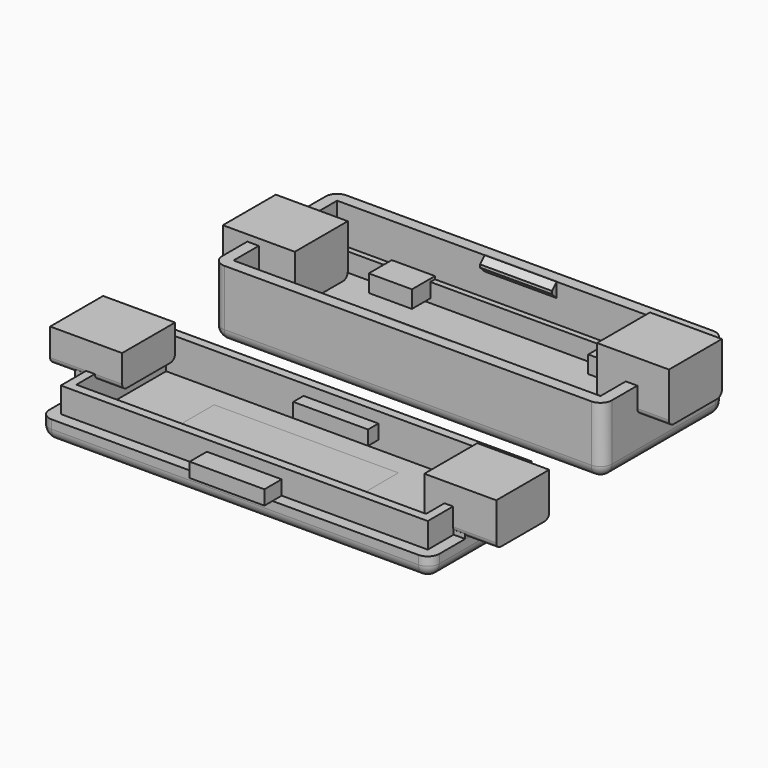
from build123d import *

# Parameters (mm, degrees)
BOX001_W        = 51
BOX001_H        = 18
BOX001_DEPTH    = 9.4
BOX_W           = 54.2
BOX_H           = 21.2
BOX_DEPTH       = 9.4
FILLET_R        = 1.6
BOX003_W        = 49.4
BOX003_H        = 16.4
BOX003_DEPTH    = 2.6
BOX002_W        = 51
BOX002_H        = 18
BOX002_DEPTH    = 2.6
BOX004_W        = 10
BOX004_H        = 1
BOX004_DEPTH    = 2
CHAMFER_SIZE    = 0.8
BOX005_W        = 10
BOX005_H        = 1
BOX005_DEPTH    = 2
CHAMFER001_SIZE = 0.8
BOX008_W        = 6
BOX008_H        = 10
BOX008_DEPTH    = 2.4
BOX009_W        = 6
BOX009_H        = 10
BOX009_DEPTH    = 2.4
BOX011_W        = 51
BOX011_H        = 18
BOX011_DEPTH    = 9.4
BOX010_W        = 54.2
BOX010_H        = 21.2
BOX010_DEPTH    = 2.8
FILLET001_R     = 1.6
BOX013_W        = 48.6
BOX013_H        = 15.6
BOX013_DEPTH    = 4.8
BOX012_W        = 51
BOX012_H        = 18
BOX012_DEPTH    = 4.7
BOX014_W        = 25.6
BOX014_H        = 9.8
BOX014_DEPTH    = 1.6
BOX017_W        = 10.4
BOX017_H        = 5
BOX017_DEPTH    = 2
BOX018_W        = 10.4
BOX018_H        = 5
BOX018_DEPTH    = 2
BOX006_W        = 10
BOX006_H        = 9.2
BOX006_DEPTH    = 7
FILLET002_R     = 0.8
BOX019_W        = 10
BOX019_H        = 9.2
BOX019_DEPTH    = 7
FILLET003_R     = 0.8
BOX022_W        = 1.6
BOX022_H        = 9
BOX022_DEPTH    = 5
BOX023_W        = 1.6
BOX023_H        = 9
BOX023_DEPTH    = 5
BOX020_W        = 10
BOX020_H        = 9.2
BOX020_DEPTH    = 4.6
FILLET004_R     = 0.8
BOX021_W        = 10
BOX021_H        = 9.2
BOX021_DEPTH    = 6
FILLET005_R     = 0.8


with BuildPart() as unten_innen:
    # Box001 → Box001 (new body)
    with BuildSketch(Plane.XY.offset(1.6)):
        with Locations((25.5, 9)):
            Rectangle(BOX001_W, BOX001_H)
    extrude(amount=BOX001_DEPTH)


with BuildPart() as obj1:
    # Box → Box (new body)
    with BuildSketch(Plane(origin=(-1.6, -1.6, 0), x_dir=(1, 0, 0), z_dir=(0, 0, 1))):
        with Locations((27.1, 10.6)):
            Rectangle(BOX_W, BOX_H)
    extrude(amount=BOX_DEPTH)

    # Cut: cut unten_innen
    add(unten_innen.part, mode=Mode.SUBTRACT)

    # Fillet
    fillet_edges = [obj1.edges().sort_by_distance(p)[0] for p in [
        (-1.6, -1.6, 4.7),
        (-1.6, 19.6, 4.7),
        (-1.6, 9, 0),
        (25.5, -1.6, 0),
        (52.6, -1.6, 4.7),
        (25.5, 19.6, 0),
        (52.6, 19.6, 4.7),
        (52.6, 9, 0),
    ]]
    fillet(fillet_edges, radius=FILLET_R)


with BuildPart() as auflage_innen:
    # Box003 → Box003 (new body)
    with BuildSketch(Plane(origin=(0.8, 0.8, 1.6), x_dir=(1, 0, 0), z_dir=(0, 0, 1))):
        with Locations((24.7, 8.2)):
            Rectangle(BOX003_W, BOX003_H)
    extrude(amount=BOX003_DEPTH)


with BuildPart() as auflage:
    # Box002 → Box002 (new body)
    with BuildSketch(Plane.XY.offset(1.6)):
        with Locations((25.5, 9)):
            Rectangle(BOX002_W, BOX002_H)
    extrude(amount=BOX002_DEPTH)

    # Cut001: cut Auflage_innen
    add(auflage_innen.part, mode=Mode.SUBTRACT)


with BuildPart() as haken1:
    # Box004 → Box004 (new body)
    with BuildSketch(Plane(origin=(20.5, -0.2, 7.4), x_dir=(1, 0, 0), z_dir=(0, 0, 1))):
        with Locations((5, 0.5)):
            Rectangle(BOX004_W, BOX004_H)
    extrude(amount=BOX004_DEPTH)

    # Chamfer
    chamfer_edges = [haken1.edges().sort_by_distance(p)[0] for p in [
        (25.5, 0.8, 7.4),
        (25.5, 0.8, 9.4),
    ]]
    chamfer(chamfer_edges, length=CHAMFER_SIZE)


with BuildPart() as haken2:
    # Box005 → Box005 (new body)
    with BuildSketch(Plane(origin=(20.5, 17.2, 7.4), x_dir=(1, 0, 0), z_dir=(0, 0, 1))):
        with Locations((5, 0.5)):
            Rectangle(BOX005_W, BOX005_H)
    extrude(amount=BOX005_DEPTH)

    # Chamfer001
    chamfer001_edges = [haken2.edges().sort_by_distance(p)[0] for p in [
        (25.5, 17.2, 7.4),
        (25.5, 17.2, 9.4),
    ]]
    chamfer(chamfer001_edges, length=CHAMFER001_SIZE)


with BuildPart() as button1:
    # Box008 → Box008 (new body)
    with BuildSketch(Plane(origin=(7.6, 14, 2.2), x_dir=(1, 0, 0), z_dir=(0, 0, 1))):
        with Locations((3, 5)):
            Rectangle(BOX008_W, BOX008_H)
    extrude(amount=BOX008_DEPTH)


with BuildPart() as button2:
    # Box009 → Box009 (new body)
    with BuildSketch(Plane(origin=(38.1, 14, 2.2), x_dir=(1, 0, 0), z_dir=(0, 0, 1))):
        with Locations((3, 5)):
            Rectangle(BOX009_W, BOX009_H)
    extrude(amount=BOX009_DEPTH)


with BuildPart() as oben_innen:
    # Box011 → Box011 (new body)
    with BuildSketch(Plane(origin=(0, -30, 1.6), x_dir=(1, 0, 0), z_dir=(0, 0, 1))):
        with Locations((25.5, 9)):
            Rectangle(BOX011_W, BOX011_H)
    extrude(amount=BOX011_DEPTH)


with BuildPart() as obj2:
    # Box010 → Box010 (new body)
    with BuildSketch(Plane(origin=(-1.6, -31.6, 0), x_dir=(1, 0, 0), z_dir=(0, 0, 1))):
        with Locations((27.1, 10.6)):
            Rectangle(BOX010_W, BOX010_H)
    extrude(amount=BOX010_DEPTH)

    # Cut002: cut oben_innen
    add(oben_innen.part, mode=Mode.SUBTRACT)

    # Fillet001
    fillet001_edges = [obj2.edges().sort_by_distance(p)[0] for p in [
        (-1.6, -31.6, 1.4),
        (-1.6, -10.4, 1.4),
        (-1.6, -21, 0),
        (25.5, -31.6, 0),
        (52.6, -31.6, 1.4),
        (25.5, -10.4, 0),
        (52.6, -10.4, 1.4),
        (52.6, -21, 0),
    ]]
    fillet(fillet001_edges, radius=FILLET001_R)


with BuildPart() as rahmen_innen:
    # Box013 → Box013 (new body)
    with BuildSketch(Plane(origin=(1.2, -28.8, 1.6), x_dir=(1, 0, 0), z_dir=(0, 0, 1))):
        with Locations((24.3, 7.8)):
            Rectangle(BOX013_W, BOX013_H)
    extrude(amount=BOX013_DEPTH)


with BuildPart() as rahmen:
    # Box012 → Box012 (new body)
    with BuildSketch(Plane(origin=(0, -30, 1.6), x_dir=(1, 0, 0), z_dir=(0, 0, 1))):
        with Locations((25.5, 9)):
            Rectangle(BOX012_W, BOX012_H)
    extrude(amount=BOX012_DEPTH)

    # Cut003: cut Rahmen_innen
    add(rahmen_innen.part, mode=Mode.SUBTRACT)


with BuildPart() as oled:
    # Box014 → Box014 (new body)
    with BuildSketch(Plane(origin=(10.2, -25.9, 0), x_dir=(1, 0, 0), z_dir=(0, 0, 1))):
        with Locations((12.8, 4.9)):
            Rectangle(BOX014_W, BOX014_H)
    extrude(amount=BOX014_DEPTH)


with BuildPart() as oese1:
    # Box017 → Box017 (new body)
    with BuildSketch(Plane(origin=(20.3, -33, 2.8), x_dir=(1, 0, 0), z_dir=(0, 0, 1))):
        with Locations((5.2, 2.5)):
            Rectangle(BOX017_W, BOX017_H)
    extrude(amount=BOX017_DEPTH)


with BuildPart() as oese2:
    # Box018 → Box018 (new body)
    with BuildSketch(Plane(origin=(20.3, -15, 2.8), x_dir=(1, 0, 0), z_dir=(0, 0, 1))):
        with Locations((5.2, 2.5)):
            Rectangle(BOX018_W, BOX018_H)
    extrude(amount=BOX018_DEPTH)


with BuildPart() as usb_buchse1:
    # Box006 → Box006 (new body)
    with BuildSketch(Plane(origin=(-5, 4.4, 3.3), x_dir=(1, 0, 0), z_dir=(0, 0, 1))):
        with Locations((5, 4.6)):
            Rectangle(BOX006_W, BOX006_H)
    extrude(amount=BOX006_DEPTH)

    # Fillet002
    fillet002_edges = [usb_buchse1.edges().sort_by_distance(p)[0] for p in [
        (0, 4.4, 3.3),
        (0, 13.6, 3.3),
    ]]
    fillet(fillet002_edges, radius=FILLET002_R)


with BuildPart() as usb_buchse2:
    # Box019 → Box019 (new body)
    with BuildSketch(Plane(origin=(47, 4.4, 5.8), x_dir=(1, 0, 0), z_dir=(0, 0, 1))):
        with Locations((5, 4.6)):
            Rectangle(BOX019_W, BOX019_H)
    extrude(amount=BOX019_DEPTH)

    # Fillet003
    fillet003_edges = [usb_buchse2.edges().sort_by_distance(p)[0] for p in [
        (52, 4.4, 5.8),
        (52, 13.6, 5.8),
    ]]
    fillet(fillet003_edges, radius=FILLET003_R)


with BuildPart() as nut1:
    # Box022 → Box022 (new body)
    with BuildSketch(Plane(origin=(-1.6, -25.5, 2.8), x_dir=(1, 0, 0), z_dir=(0, 0, 1))):
        with Locations((0.8, 4.5)):
            Rectangle(BOX022_W, BOX022_H)
    extrude(amount=BOX022_DEPTH)


with BuildPart() as nut2:
    # Box023 → Box023 (new body)
    with BuildSketch(Plane(origin=(51, -25.5, 2.8), x_dir=(1, 0, 0), z_dir=(0, 0, 1))):
        with Locations((0.8, 4.5)):
            Rectangle(BOX023_W, BOX023_H)
    extrude(amount=BOX023_DEPTH)


with BuildPart() as usb_buchse3:
    # Box020 → Box020 (new body)
    with BuildSketch(Plane(origin=(-5, -25.6, 5.5), x_dir=(1, 0, 0), z_dir=(0, 0, 1))):
        with Locations((5, 4.6)):
            Rectangle(BOX020_W, BOX020_H)
    extrude(amount=BOX020_DEPTH)

    # Fillet004
    fillet004_edges = [usb_buchse3.edges().sort_by_distance(p)[0] for p in [
        (0, -25.6, 5.5),
        (0, -16.4, 5.5),
    ]]
    fillet(fillet004_edges, radius=FILLET004_R)


with BuildPart() as usb_buchse4:
    # Box021 → Box021 (new body)
    with BuildSketch(Plane(origin=(47, -25.6, 3), x_dir=(1, 0, 0), z_dir=(0, 0, 1))):
        with Locations((5, 4.6)):
            Rectangle(BOX021_W, BOX021_H)
    extrude(amount=BOX021_DEPTH)

    # Fillet005
    fillet005_edges = [usb_buchse4.edges().sort_by_distance(p)[0] for p in [
        (52, -25.6, 3),
        (52, -16.4, 3),
    ]]
    fillet(fillet005_edges, radius=FILLET005_R)


solid = Compound([obj1.part, auflage.part, haken1.part, haken2.part, button1.part, button2.part, obj2.part, rahmen.part, oled.part, oese1.part, oese2.part, usb_buchse1.part, usb_buchse2.part, nut1.part, nut2.part, usb_buchse3.part, usb_buchse4.part])
